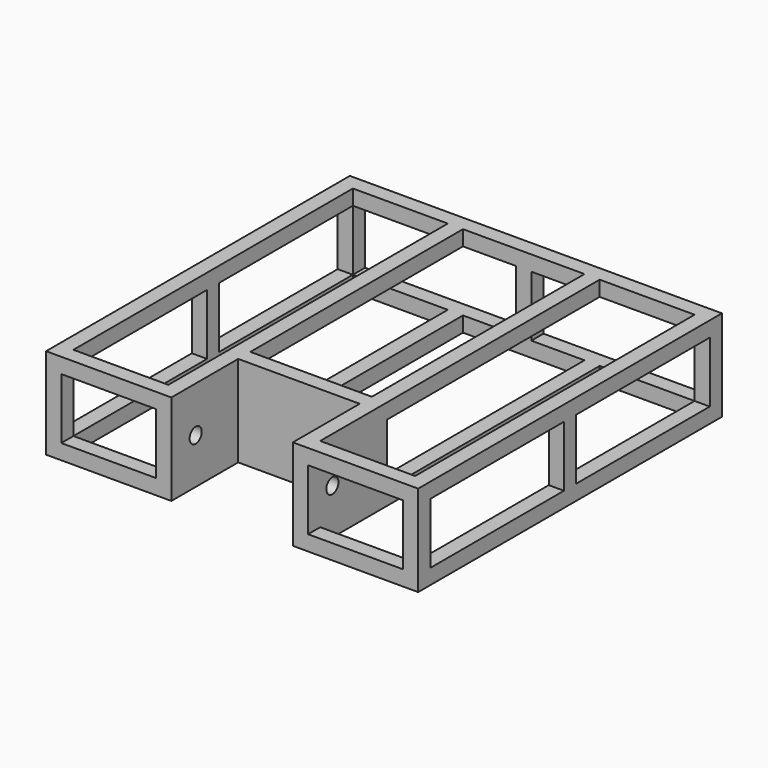
from build123d import *

# Parameters (mm, degrees)
F0_W      = 20
F0_H      = 20
F1_DEPTH  = 500
F2_W      = 20
F2_H      = 20
F3_DEPTH  = 470
F4_W      = 20
F4_H      = 20
F5_DEPTH  = 460
F6_W      = 20
F6_H      = 20
F7_DEPTH  = 110
F8_W      = 20
F8_H      = 20
F9_DEPTH  = 160
F10_W     = 20
F10_H     = 20
F10_H_2   = 130
F11_DEPTH = 40
F13_W     = 160
F13_H     = 20
F14_DEPTH = 120.001
F16_D     = 20
F16_DEPTH = 250
F16_TIP   = 6.0086061903
F17_W     = 160
F17_H     = 80
F18_DEPTH = 20
F19_W     = 20
F19_H     = 20
F20_DEPTH = 350


with BuildPart() as f1:
    # F0 (on Front) → F1 (new body)
    with BuildSketch(Plane.XZ):
        with Locations((10, 10)):
            Rectangle(F0_W, F0_H)
    extrude(amount=F1_DEPTH)

    # F2 (on face) → F3 (join)
    with BuildSketch(Plane(origin=(0, 0, 0), x_dir=(0, -1, 0), z_dir=(-1, 0, 0))):
        with Locations((10, 10)):
            Rectangle(F2_W, F2_H)
        with Locations((490, 10)):
            Rectangle(F2_W, F2_H)
    extrude(amount=F3_DEPTH)

    # F4 (on face) → F5 (join, through all)
    with BuildSketch(Plane.XZ.offset(20)):
        with Locations((-460, 10)):
            Rectangle(F4_W, F4_H)
    extrude(amount=F5_DEPTH)

    # F6 (on face) → F7 (join)
    with BuildSketch(Plane(origin=(0, -480, 0), x_dir=(-1, 0, 0), z_dir=(0, 1, 0))):
        with Locations((135, 10)):
            Rectangle(F6_W, F6_H)
        with Locations((315, 10)):
            Rectangle(F6_W, F6_H)
    extrude(amount=F7_DEPTH)

    # F8 (on face) → F9 (join, through all)
    with BuildSketch(Plane(origin=(-145, 0, 0), x_dir=(0, -1, 0), z_dir=(-1, 0, 0))):
        with Locations((380, 10)):
            Rectangle(F8_W, F8_H)
    extrude(amount=F9_DEPTH)

    # F10 (on face) → F11 (join)
    with BuildSketch(Plane.XY.offset(20)):
        with Locations((-460, -490)):
            Rectangle(F10_W, F10_H)
        with Locations((10, -490)):
            Rectangle(F10_W, F10_H)
        with Locations((-460, -10)):
            Rectangle(F10_W, F10_H)
        with Locations((10, -10)):
            Rectangle(F10_W, F10_H)
        with Locations((10, -250)):
            Rectangle(F10_W, F10_H)
        with Locations((-460, -250)):
            Rectangle(F10_W, F10_H)
        with Locations((-315, -435)):
            Rectangle(F10_W, F10_H_2)
        with Locations((-135, -435)):
            Rectangle(F10_W, F10_H_2)
        with Locations((-225, -10)):
            Rectangle(F10_W, F10_H)
    extrude(amount=F11_DEPTH)

    # F12: F1 across face


with BuildPart() as f1_1:
    add(f1.part)
    add(f1.part.mirror(Plane(origin=(10, -10, 60), x_dir=(1, 0, 0), z_dir=(0, 0, 1))))

    # F13 (on face) → F14 (cut, through all)
    with BuildSketch(Plane.XY.offset(120)):
        with Locations((-225, -490)):
            Rectangle(F13_W, F13_H)
    extrude(amount=-F14_DEPTH, mode=Mode.SUBTRACT)

    # F16
    with Locations(Plane.YZ.offset(-125)):
        with Locations((-460, 60)):
            Hole(F16_D / 2, depth=F16_DEPTH)
            with Locations((0, 0, -(F16_DEPTH + F16_TIP / 2))):  # 118° drill point
                Cone(0, F16_D / 2, F16_TIP, mode=Mode.SUBTRACT)

    # F17 (on face) → F18 (join)
    with BuildSketch(Plane(origin=(0, -370, 0), x_dir=(-1, 0, 0), z_dir=(0, 1, 0))):
        with Locations((225, 60)):
            Rectangle(F17_W, F17_H)
    extrude(amount=-F18_DEPTH)

    # F19 (on face) → F20 (join, through all)
    with BuildSketch(Plane(origin=(0, -370, 0), x_dir=(-1, 0, 0), z_dir=(0, 1, 0))):
        with Locations((135, 10)):
            Rectangle(F19_W, F19_H)
        with Locations((315, 10)):
            Rectangle(F19_W, F19_H)
        with Locations((315, 110)):
            Rectangle(F19_W, F19_H)
        with Locations((135, 110)):
            Rectangle(F19_W, F19_H)
    extrude(amount=F20_DEPTH)


solid = f1_1.part
